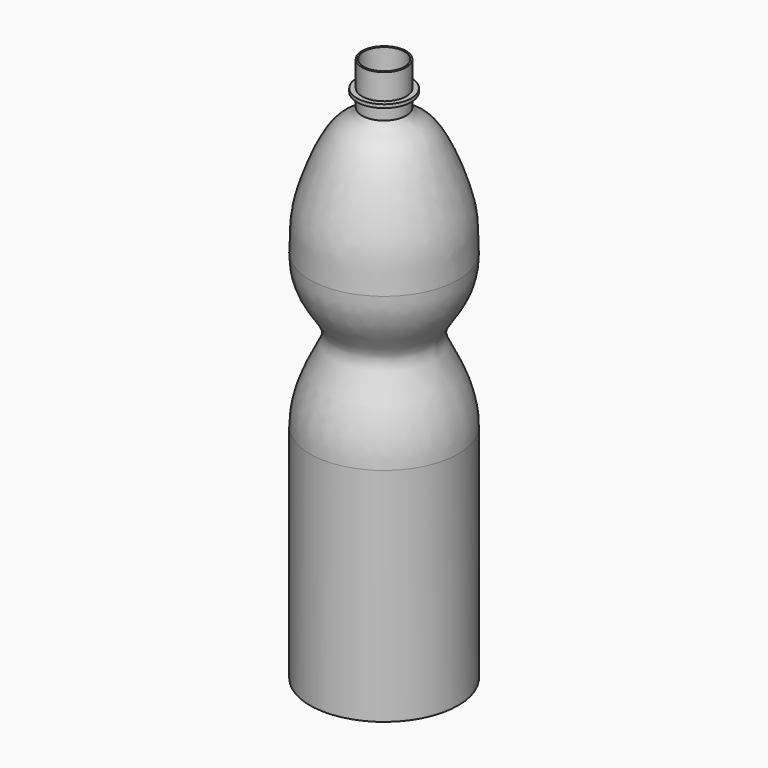
from build123d import *

# Parameters (mm, degrees)
F2_W     = 90.759490079
F2_H     = 30
F3_DEPTH = 50


with BuildPart() as f1:
    # F0 (on Front) → F1 (revolve)
    with BuildSketch(Plane.XZ):
        with BuildLine():
            Line((0, -349), (0, -350))
            Line((0, -350), (23.5, -350))
            ThreePointArc((23.5, -350), (37.6421356237, -344.1421356237), (43.5, -330))
            Line((43.5, -330), (43.5, -190))
            add(Edge.make_bspline(
                [(43.5, -100), (43.5136655823, -109.2677385113), (39.1523633552, -123.5841908002), (24.2069666289, -139.9270455841), (36.8772857328, -158.3450760247), (43.5142465453, -178.4930156545), (43.5, -190)],
                knots=[0, 0, 0, 0, 0.2553201748, 0.4772684921, 0.7031288482, 1, 1, 1, 1], degree=3))
            add(Edge.make_bspline(
                [(13, -25), (15.153980754, -30.004083225), (26.3990720982, -29.6995209895), (44.8019804311, -78.3531291958), (42.8678392414, -88.8611251657), (43.5, -100)],
                knots=[0, 0, 0, 0, 0.239885862, 0.6752778241, 1, 1, 1, 1], degree=3))
            Line((13, -25), (13, -17))
            Line((13, -17), (16, -17))
            Line((16, -17), (16, -15))
            Line((16, -15), (13, -15))
            Line((13, -15), (13, 0))
            Line((13, 0), (12, 0))
            Line((12, 0), (12, -1))
            Line((12, -1), (12, -25.1138266176))
            add(Edge.make_bspline(
                [(42.5, -100), (42.1580635011, -92.4746021628), (43.1338322578, -76.1216357103), (25.4300825706, -29.885728794), (13.9739168808, -30.3249489516), (12, -25.1138266176)],
                knots=[0, 0, 0, 0, 0.3254300492, 0.7613683252, 1, 1, 1, 1], degree=3))
            add(Edge.make_bspline(
                [(42.5, -190), (42.0858003199, -178.4723848104), (36.3650992329, -158.3583449355), (23.0339165178, -139.8179083613), (38.4175773884, -124.0130301912), (42.7362024784, -108.3010882139), (42.5, -100)],
                knots=[0, 0, 0, 0, 0.2965395662, 0.5226698941, 0.7450400773, 1, 1, 1, 1], degree=3))
            Line((42.5, -190), (42.5, -330))
            ThreePointArc((42.5, -330), (36.9350288425, -343.4350288425), (23.5, -349))
            Line((23.5, -349), (0, -349))
        make_face()
    revolve(axis=Axis((0, 0, -175), (0, 0, -1)))

    # F2 (on Front) → F3 (cut, symmetric)
    with BuildSketch(Plane.XZ):
        with Locations((0.3664636352, -335)):
            Rectangle(F2_W, F2_H)
    extrude(amount=F3_DEPTH, both=True, mode=Mode.SUBTRACT)


solid = f1.part
